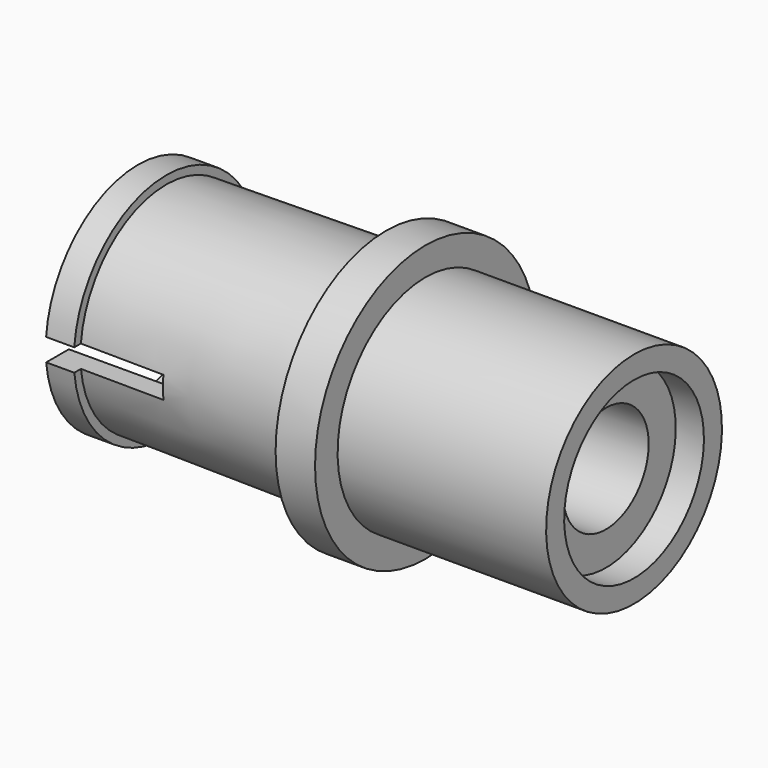
from build123d import *

# Parameters (mm, degrees)
F4_DEPTH = 25.4


with BuildPart() as f1:
    # F0 (on Front) → F1 (revolve)
    with BuildSketch(Plane.XZ):
        Polygon((-11.735366, 1.273595), (-13.01095, 1.273595), (-13.01095, 0), (-6.633033, 0), (-6.633033, -1.5307), (-1.785817, -1.5307), (-1.785817, -3.954308), (-0.255117, -3.954308), (-0.255117, -1.5307), (8.163733, -1.5307), (8.163733, 0), (9.439317, 0), (9.439317, 1.020467), (0, 1.020467), (0, 2.29605), (-1.785817, 2.29605), (-1.785817, 1.020467), (-11.735366, 0.901324), align=None)
    revolve(axis=Axis((-1.020467, 0, -3.954308), (1, 0, 0)))

    # F3 (on offset) → F4 (cut)
    with BuildSketch(Plane.XZ.offset(6.35)):
        Polygon((-13.041663, -3.474443), (-13.041663, -3.976177), (-13.041663, -4.489482), (-7.965, -4.479163), (-7.965, -3.474443), align=None)
    extrude(amount=-F4_DEPTH, mode=Mode.SUBTRACT)


solid = f1.part
